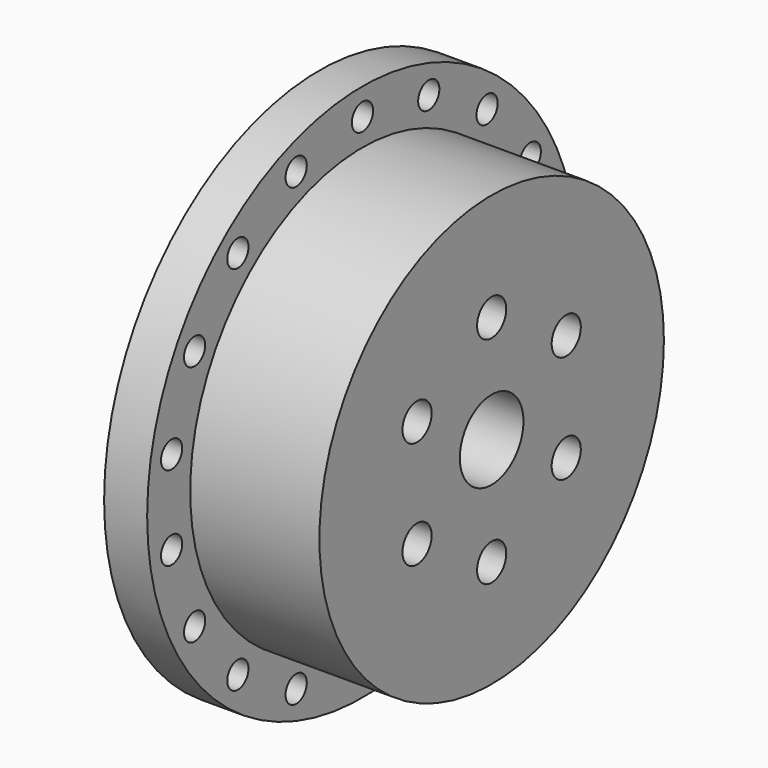
from build123d import *

# Parameters (mm, degrees)
F0_R     = 65
F0_R_2   = 5.5
F0_R_3   = 12
F1_DEPTH = 52
F0_R_4   = 81.25
F0_R_5   = 4
F2_DEPTH = 13
F3_DEPTH = 5.2


with BuildPart() as f1:
    # F0 (on Right) → F1 (new body)
    with BuildSketch(Plane.YZ):
        Circle(F0_R)
        with Locations((-28.145826, -16.25)):
            Circle(F0_R_2, mode=Mode.SUBTRACT)
        with Locations((0, -32.5)):
            Circle(F0_R_2, mode=Mode.SUBTRACT)
        with Locations((28.145826, -16.25)):
            Circle(F0_R_2, mode=Mode.SUBTRACT)
        with Locations((-28.145826, 16.25)):
            Circle(F0_R_2, mode=Mode.SUBTRACT)
        Circle(F0_R_3, mode=Mode.SUBTRACT)
        with Locations((28.145826, 16.25)):
            Circle(F0_R_2, mode=Mode.SUBTRACT)
        with Locations((0, 32.5)):
            Circle(F0_R_2, mode=Mode.SUBTRACT)
    extrude(amount=F1_DEPTH)

    # F0 (on Right) → F2 (join)
    with BuildSketch(Plane.YZ):
        Circle(F0_R_4)
        with Locations((-47.013486, -56.028491)):
            Circle(F0_R_5, mode=Mode.SUBTRACT)
        with Locations((-25.015353, -68.729118)):
            Circle(F0_R_5, mode=Mode.SUBTRACT)
        with Locations((-63.341098, -36.57)):
            Circle(F0_R_5, mode=Mode.SUBTRACT)
        with Locations((-72.028839, -12.700628)):
            Circle(F0_R_5, mode=Mode.SUBTRACT)
        with Locations((0, -73.14)):
            Circle(F0_R_5, mode=Mode.SUBTRACT)
        with Locations((25.015353, -68.729118)):
            Circle(F0_R_5, mode=Mode.SUBTRACT)
        with Locations((47.013486, -56.028491)):
            Circle(F0_R_5, mode=Mode.SUBTRACT)
        with Locations((63.341098, -36.57)):
            Circle(F0_R_5, mode=Mode.SUBTRACT)
        with Locations((72.028839, -12.700628)):
            Circle(F0_R_5, mode=Mode.SUBTRACT)
        with Locations((-72.028839, 12.700628)):
            Circle(F0_R_5, mode=Mode.SUBTRACT)
        with Locations((-63.341098, 36.57)):
            Circle(F0_R_5, mode=Mode.SUBTRACT)
        with Locations((-47.013486, 56.028491)):
            Circle(F0_R_5, mode=Mode.SUBTRACT)
        with Locations((-25.015353, 68.729118)):
            Circle(F0_R_5, mode=Mode.SUBTRACT)
        Circle(F0_R, mode=Mode.SUBTRACT)
        with Locations((72.028839, 12.700628)):
            Circle(F0_R_5, mode=Mode.SUBTRACT)
        with Locations((63.341098, 36.57)):
            Circle(F0_R_5, mode=Mode.SUBTRACT)
        with Locations((0, 73.14)):
            Circle(F0_R_5, mode=Mode.SUBTRACT)
        with Locations((25.015353, 68.729118)):
            Circle(F0_R_5, mode=Mode.SUBTRACT)
        with Locations((47.013486, 56.028491)):
            Circle(F0_R_5, mode=Mode.SUBTRACT)
    extrude(amount=F2_DEPTH)

    # F0 (on Right) → F3 (join)
    with BuildSketch(Plane.YZ):
        Circle(F0_R)
        with Locations((-28.145826, -16.25)):
            Circle(F0_R_2, mode=Mode.SUBTRACT)
        with Locations((0, -32.5)):
            Circle(F0_R_2, mode=Mode.SUBTRACT)
        with Locations((28.145826, -16.25)):
            Circle(F0_R_2, mode=Mode.SUBTRACT)
        with Locations((-28.145826, 16.25)):
            Circle(F0_R_2, mode=Mode.SUBTRACT)
        Circle(F0_R_3, mode=Mode.SUBTRACT)
        with Locations((28.145826, 16.25)):
            Circle(F0_R_2, mode=Mode.SUBTRACT)
        with Locations((0, 32.5)):
            Circle(F0_R_2, mode=Mode.SUBTRACT)
    extrude(amount=-F3_DEPTH)


solid = f1.part
